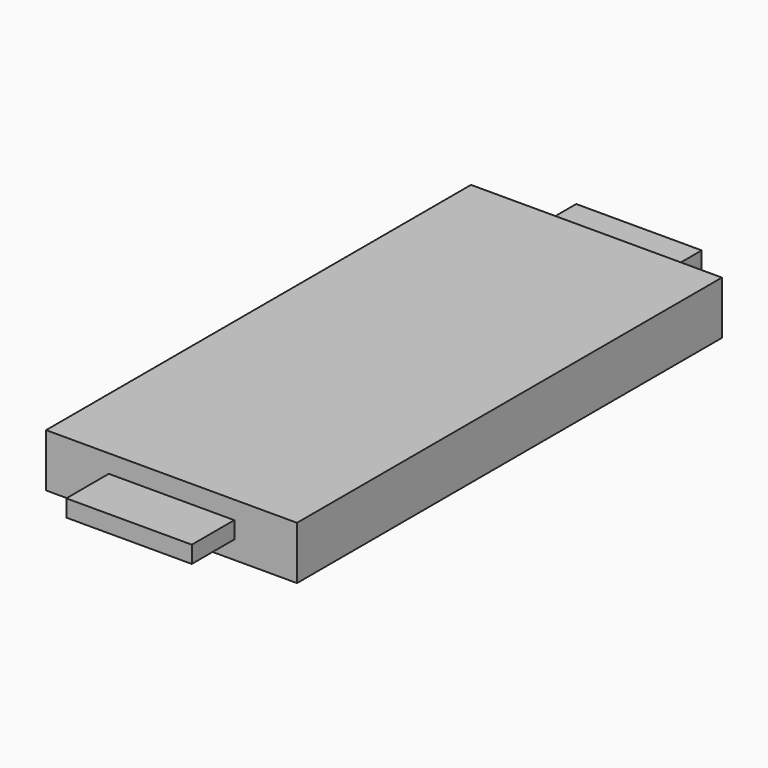
from build123d import *

# Parameters (mm, degrees)
F1_START = 6.35
F1_DEPTH = 63.5
F2_DEPTH = 76.2


with BuildPart() as f1:
    # F0 (on Front) → F1 (new body)
    with BuildSketch(Plane.XZ.offset(F1_START)):
        Polygon((0, 3.175), (0, 0), (13.9109061479, 0), (13.9109061479, 2.159), (7.4999977, 2.159), (7.4999977, 3.175), align=None)
        Polygon((13.9109061479, 2.159), (13.9109061479, 0), (29.9999908, 0), (29.9999908, 3.175), (22.4999931, 3.175), (22.4999931, 2.159), align=None)
        Polygon((22.4999931, 3.175), (29.9999908, 3.175), (29.9999908, 6.35), (13.805958201, 6.35), (13.805958201, 4.191), (22.4999931, 4.191), align=None)
        Polygon((0, 6.35), (0, 3.175), (7.4999977, 3.175), (7.4999977, 4.191), (13.805958201, 4.191), (13.805958201, 6.35), align=None)
    extrude(amount=F1_DEPTH)

    # F0 (on Front) → F2 (join)
    with BuildSketch(Plane.XZ):
        Polygon((7.4999977, 2.159), (13.9109061479, 2.159), (22.4999931, 2.159), (22.4999931, 3.175), (22.4999931, 4.191), (13.805958201, 4.191), (7.4999977, 4.191), (7.4999977, 3.175), align=None)
    extrude(amount=F2_DEPTH)


solid = f1.part
